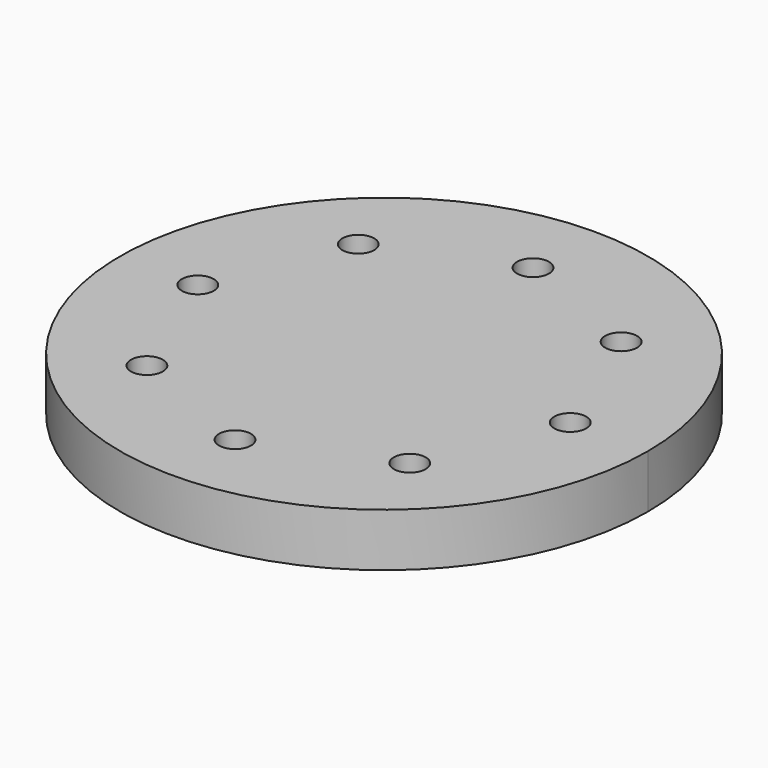
from build123d import *

# Parameters (mm, degrees)
F0_R     = 7.5
F1_DEPTH = 25


with BuildPart() as f1:
    # F0 (on Top) → F1 (new body)
    with BuildSketch(Plane.XY):
        with BuildLine():
            ThreePointArc((87.899274, 87.462664), (-114.620046, -47.310094), (124, 0))
            ThreePointArc((124, 0), (114.620046, 47.310094), (87.899274, 87.462664))
        make_face()
        with Locations((-62.025698, -61.717605)):
            Circle(F0_R, mode=Mode.SUBTRACT)
        with Locations((0, -87.5)):
            Circle(F0_R, mode=Mode.SUBTRACT)
        with Locations((61.717605, -62.025698)):
            Circle(F0_R, mode=Mode.SUBTRACT)
        with Locations((-87.5, 0)):
            Circle(F0_R, mode=Mode.SUBTRACT)
        with Locations((-61.717605, 62.025698)):
            Circle(F0_R, mode=Mode.SUBTRACT)
        with Locations((87.5, 0)):
            Circle(F0_R, mode=Mode.SUBTRACT)
        with Locations((62.025698, 61.717605)):
            Circle(F0_R, mode=Mode.SUBTRACT)
        with Locations((0, 87.5)):
            Circle(F0_R, mode=Mode.SUBTRACT)
    extrude(amount=F1_DEPTH)


solid = f1.part
